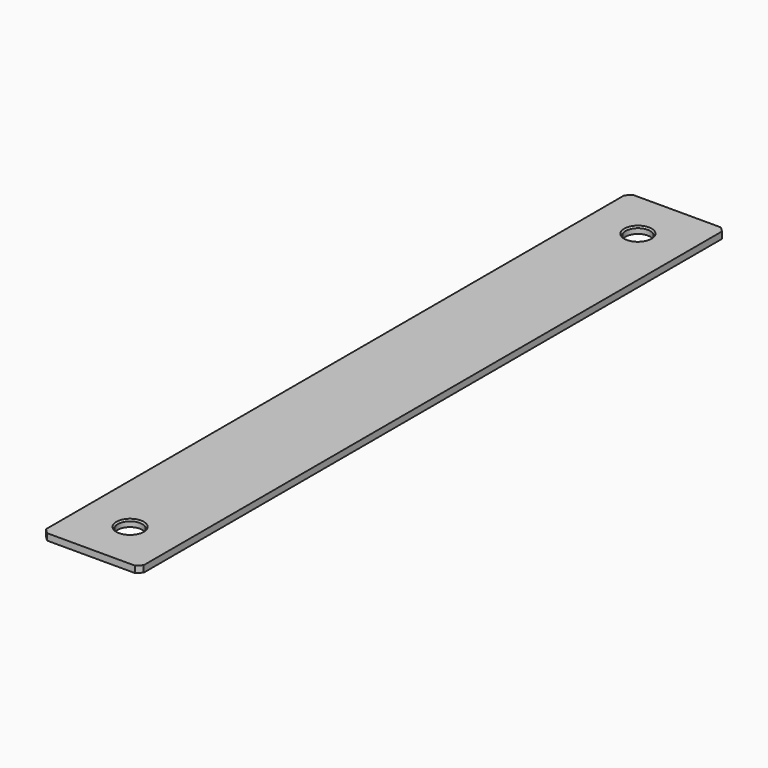
from build123d import *

# Parameters (mm, degrees)
F0_W     = 50.8
F0_H     = 381
F0_R     = 6.35
F1_DEPTH = 1.7145
F2_SIZE  = 2.54
F3_SIZE  = 0.7874


with BuildPart() as f1:
    # F0 (on Top) → F1 (new body, symmetric)
    with BuildSketch(Plane.XY):
        Rectangle(F0_W, F0_H)
        with Locations((0, -165.1)):
            Circle(F0_R, mode=Mode.SUBTRACT)
        with Locations((0, 165.1)):
            Circle(F0_R, mode=Mode.SUBTRACT)
    extrude(amount=F1_DEPTH, both=True)

    # F2
    f2_edges = [f1.edges().sort_by_distance(p)[0] for p in [
        (25.4, -190.5, 0),
        (-25.4, -190.5, 0),
        (-25.4, 190.5, 0),
        (25.4, 190.5, 0),
    ]]
    chamfer(f2_edges, length=F2_SIZE)

    # F3
    f3_edges = [f1.edges().sort_by_distance(p)[0] for p in [
        (-6.35, -165.1, 1.7145),
        (-6.35, 165.1, 1.7145),
    ]]
    chamfer(f3_edges, length=F3_SIZE)


solid = f1.part
